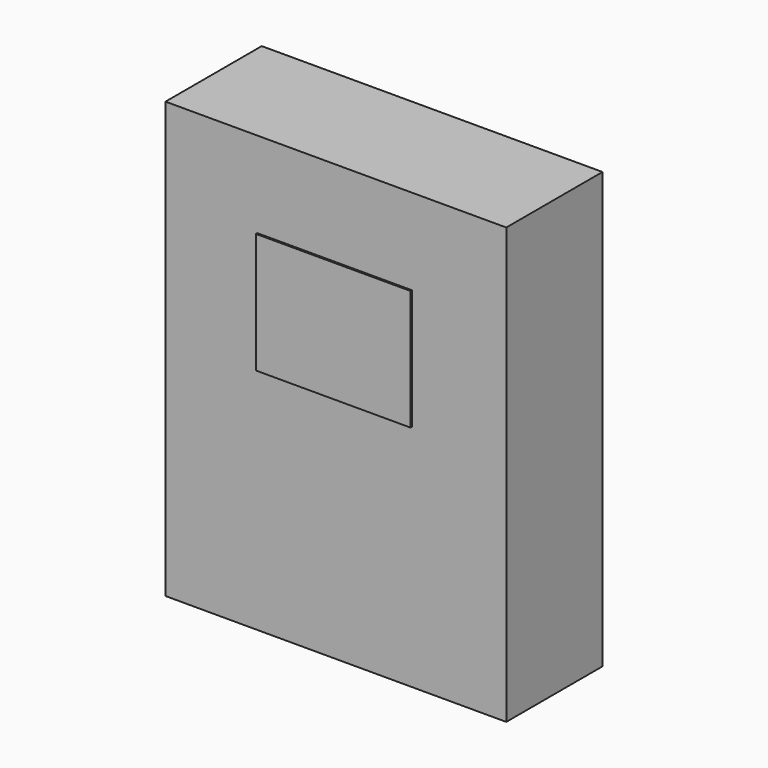
from build123d import *

# Parameters (mm, degrees)
F0_W     = 595
F0_H     = 760
F1_DEPTH = 210
F2_W     = 270
F2_H     = 210
F3_DEPTH = 3


with BuildPart() as f1:
    # F0 (on Front) → F1 (new body)
    with BuildSketch(Plane.XZ):
        Rectangle(F0_W, F0_H)
    extrude(amount=-F1_DEPTH)


with BuildPart() as f3:
    # F2 (on face) → F3 (new body)
    with BuildSketch(Plane.XZ):
        with Locations((-2.5, 125)):
            Rectangle(F2_W, F2_H)
    extrude(amount=F3_DEPTH)


solid = Compound([f1.part, f3.part])
